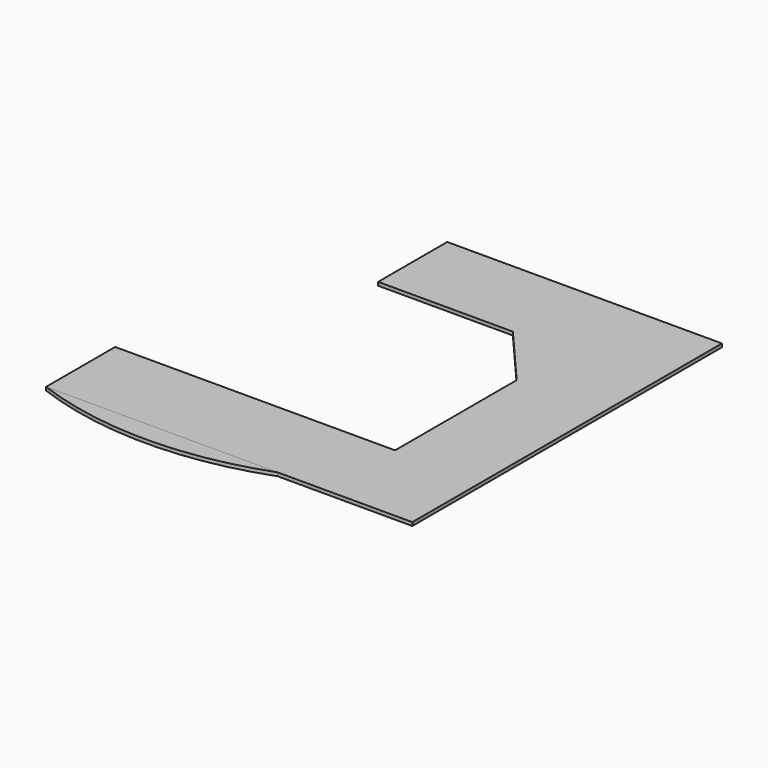
from build123d import *

# Parameters (mm, degrees)
F1_DEPTH = 25.4
F3_DEPTH = 25.4


with BuildPart() as f1:
    # F0 (on Top) → F1 (new body)
    with BuildSketch(Plane.XY):
        Polygon((635, 635), (-1384.3, 635), (-1384.3, 0), (-393.7, 0), (0, -457.2), (0, -1574.8), (-2057.4, -1574.8), (-2057.4, -2209.8), (635, -2209.8), align=None)
    extrude(amount=F1_DEPTH)


with BuildPart() as f3:
    # F2 (on face) → F3 (new body)
    with BuildSketch(Plane.XY.offset(25.4)):
        with BuildLine():
            Line((-355.6, -2209.8), (-2057.4, -2209.8))
            ThreePointArc((-2057.4, -2209.8), (-1206.5, -2362.2), (-355.6, -2209.8))
        make_face()
    extrude(amount=-F3_DEPTH)


solid = Compound([f1.part, f3.part])
